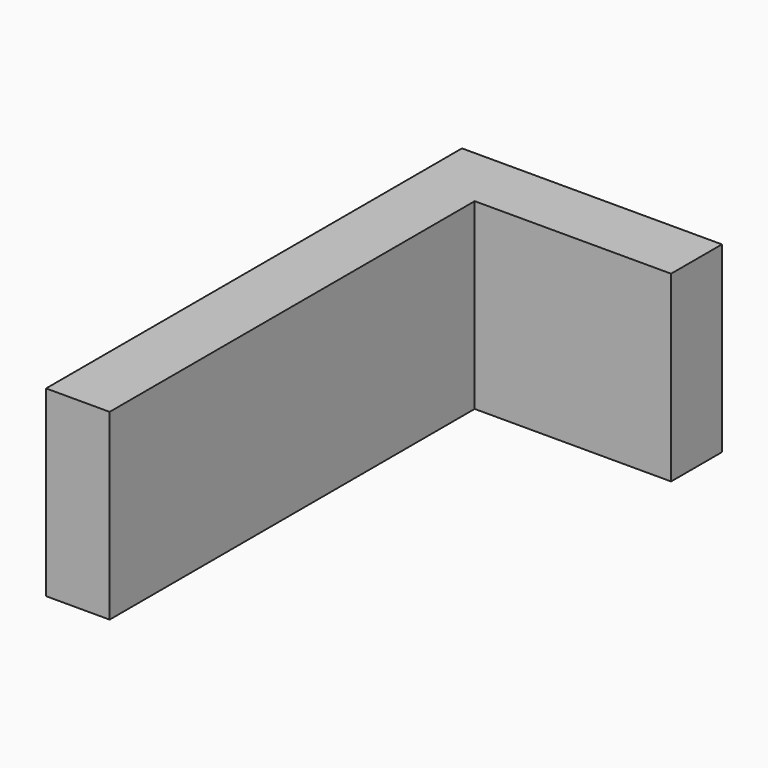
from build123d import *

# Parameters (mm, degrees)
BOX054_W     = 45
BOX054_H     = 11
BOX054_DEPTH = 31.6667
BOX053_W     = 11
BOX053_H     = 90
BOX053_DEPTH = 31.6667


with BuildPart() as obj1:
    # Box054 → Box054 (new body)
    with BuildSketch(Plane(origin=(5, 194, 55.3333), x_dir=(1, 0, 0), z_dir=(0, 0, 1))):
        with Locations((22.5, 5.5)):
            Rectangle(BOX054_W, BOX054_H)
    extrude(amount=BOX054_DEPTH)


with BuildPart() as obj2:
    # Box053 → Box053 (new body)
    with BuildSketch(Plane(origin=(5, 115, 55.3333), x_dir=(1, 0, 0), z_dir=(0, 0, 1))):
        with Locations((5.5, 45)):
            Rectangle(BOX053_W, BOX053_H)
    extrude(amount=BOX053_DEPTH)

    # Fusion018: union obj1
    add(obj1.part)


solid = obj2.part
